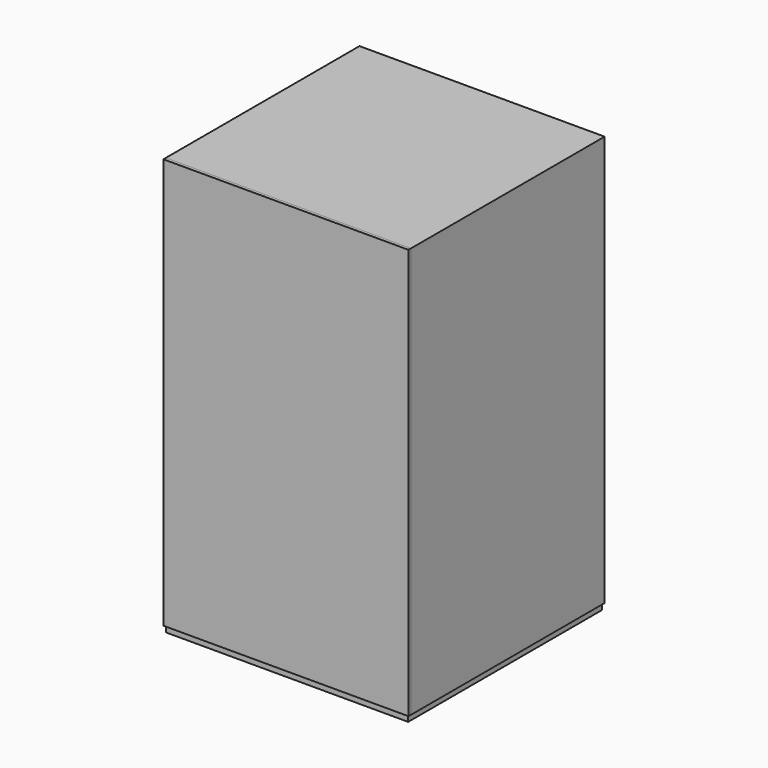
from build123d import *

# Parameters (mm, degrees)
F0_W     = 501.65
F0_H     = 501.65
F1_DEPTH = 12.7
F2_W     = 501.65
F2_H     = 498.475
F3_DEPTH = 850.9
F2_H_2   = 3.175
F4_DEPTH = 850.9
F5_R     = 9.525
F6_DEPTH = 3.175


with BuildPart() as f1:
    # F0 (on Top) → F1 (new body)
    with BuildSketch(Plane.XY):
        Rectangle(F0_W, F0_H)
    extrude(amount=F1_DEPTH)

    # F2 (on face) → F3 (join)
    with BuildSketch(Plane.XY.offset(12.7)):
        with Locations((0, 1.5875)):
            Rectangle(F2_W, F2_H)
        Polygon((254, 254), (-254, 254), (-254, -247.65), (-250.825, -247.65), (-250.825, 250.825), (250.825, 250.825), (250.825, -247.65), (254, -247.65), align=None)
    extrude(amount=F3_DEPTH)


with BuildPart() as f4:
    # F2 (on face) → F4 (new body)
    with BuildSketch(Plane.XY.offset(12.7)):
        with Locations((0, -249.2375)):
            Rectangle(F2_W, F2_H_2)
        Polygon((-250.825, -247.65), (-254, -247.65), (-254, -254), (254, -254), (254, -247.65), (250.825, -247.65), (250.825, -250.825), (-250.825, -250.825), align=None)
    extrude(amount=F4_DEPTH)


with BuildPart() as f6:
    # F5 (on face) → F6 (new body)
    with BuildSketch(Plane(origin=(0, 0, 0), x_dir=(1, 0, 0), z_dir=(0, 0, -1))):
        with Locations((-228.6, 228.6)):
            Circle(F5_R)
    extrude(amount=F6_DEPTH)


with BuildPart() as f6b:
    # F5 (on face) → F6, piece 2 (new body)
    with BuildSketch(Plane(origin=(0, 0, 0), x_dir=(1, 0, 0), z_dir=(0, 0, -1))):
        with Locations((-228.6, -228.6)):
            Circle(F5_R)
    extrude(amount=F6_DEPTH)


with BuildPart() as f6c:
    # F5 (on face) → F6, piece 3 (new body)
    with BuildSketch(Plane(origin=(0, 0, 0), x_dir=(1, 0, 0), z_dir=(0, 0, -1))):
        with Locations((228.6, 228.6)):
            Circle(F5_R)
    extrude(amount=F6_DEPTH)


with BuildPart() as f6d:
    # F5 (on face) → F6, piece 4 (new body)
    with BuildSketch(Plane(origin=(0, 0, 0), x_dir=(1, 0, 0), z_dir=(0, 0, -1))):
        with Locations((228.6, -228.6)):
            Circle(F5_R)
    extrude(amount=F6_DEPTH)


solid = Compound([f1.part, f4.part, f6.part, f6b.part, f6c.part, f6d.part])
